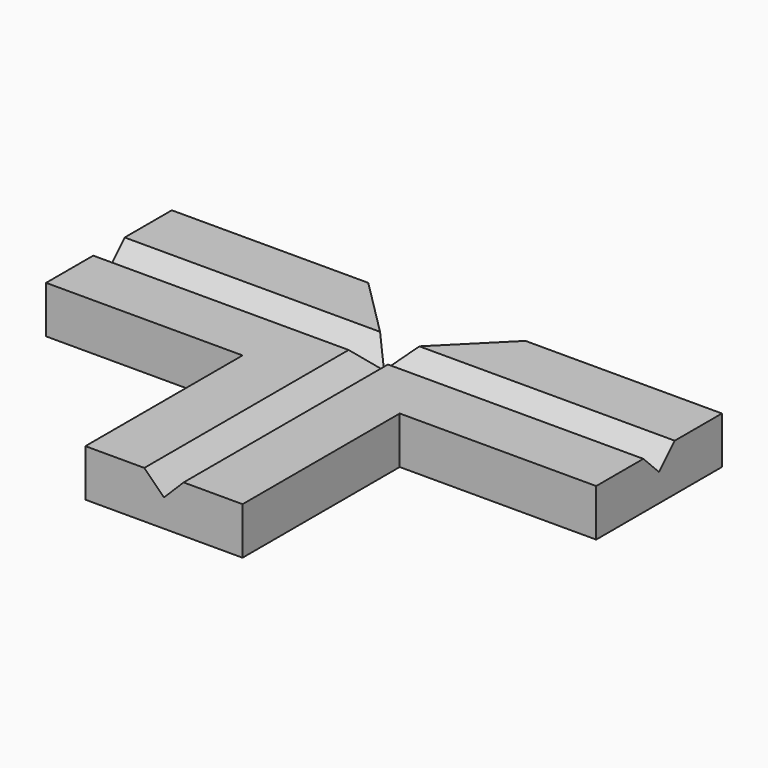
from build123d import *

# Parameters (mm, degrees)
F1_DEPTH = 30.48
F3_DEPTH = 228.601
F5_DEPTH = 355.601


with BuildPart() as f1:
    # F0 (on Top) → F1 (new body)
    with BuildSketch(Plane.XY):
        Polygon((238.922207, -110.560542), (289.722207, -110.560542), (289.722207, 67.239458), (111.922207, 67.239458), (111.922207, 16.439458), (238.922207, 16.439458), align=None)
        Polygon((289.722207, 67.239458), (289.722207, -110.560542), (340.522207, -110.560542), (340.522207, 16.439458), (467.522207, 16.439458), (467.522207, 67.239458), align=None)
        Polygon((111.922207, 67.239458), (289.722207, 67.239458), (238.922207, 118.039458), (111.922207, 118.039458), align=None)
        Polygon((340.522207, 118.039458), (289.722207, 67.239458), (467.522207, 67.239458), (467.522207, 118.039458), align=None)
    extrude(amount=F1_DEPTH)

    # F2 (on face) → F3 (cut, through all)
    with BuildSketch(Plane.XZ.offset(110.560542)):
        Polygon((302.422207, 30.48), (277.022207, 30.48), (289.722207, 17.78), align=None)
    extrude(amount=-F3_DEPTH, mode=Mode.SUBTRACT)

    # F4 (on face) → F5 (cut, through all)
    with BuildSketch(Plane.YZ.offset(467.522207)):
        Polygon((67.239458, 17.78), (79.939458, 30.48), (54.539458, 30.48), align=None)
    extrude(amount=-F5_DEPTH, mode=Mode.SUBTRACT)


solid = f1.part
